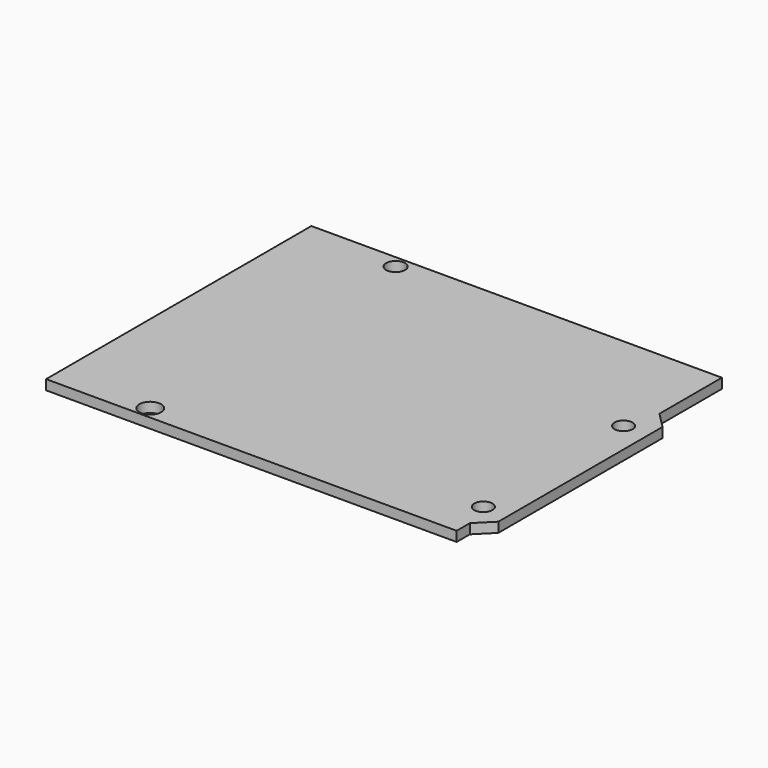
from build123d import *

# Parameters (mm, degrees)
F1_DEPTH = 1.588
F2_R     = 1.519833
F2_R_2   = 1.756332
F2_R_3   = 1.456
F3_DEPTH = 25


with BuildPart() as f1:
    # F0 (on Top) → F1 (new body)
    with BuildSketch(Plane.XY):
        Polygon((33.02, 26.67), (-33.02, 26.67), (-33.02, -26.67), (33.02, -26.67), (33.02, -24.007), (33.02, 14.101), align=None)
        Polygon((35.564, 11.557), (33.02, 14.101), (33.02, -24.007), (35.564, -21.463), align=None)
    extrude(amount=F1_DEPTH)

    # F2 (on face) → F3 (cut)
    with BuildSketch(Plane.XY.offset(1.588)):
        with Locations((-17.863, 24.67)):
            Circle(F2_R)
        with Locations((-17.863, -24.67)):
            Circle(F2_R_2)
        with Locations((31.564, -19.475155)):
            Circle(F2_R_3)
        with Locations((31.564, 8.719)):
            Circle(F2_R_3)
    extrude(amount=-F3_DEPTH, mode=Mode.SUBTRACT)


solid = f1.part
